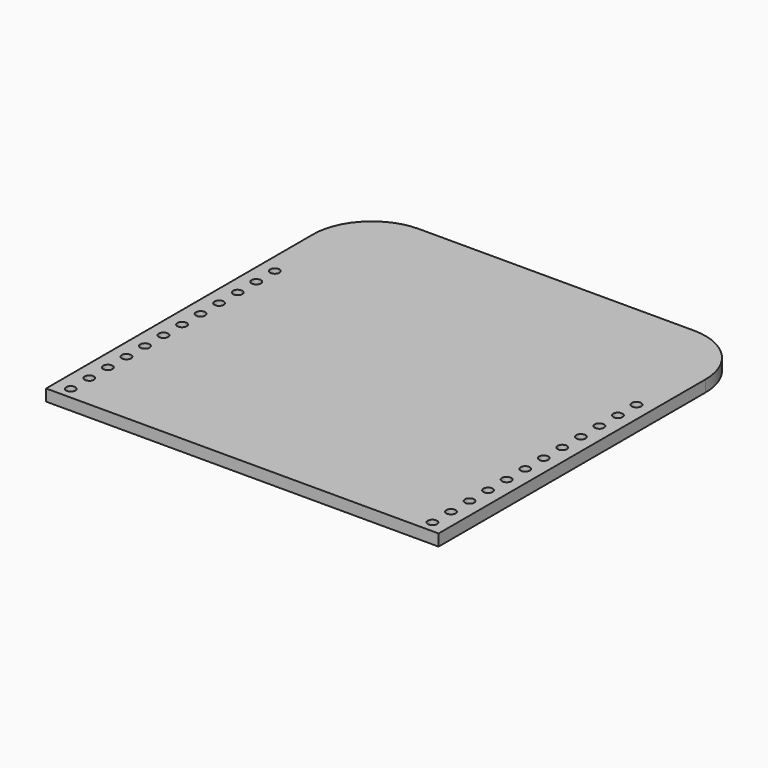
from build123d import *

# Parameters (mm, degrees)
F0_R     = 0.4
F1_DEPTH = 1


with BuildPart() as f1:
    # F0 (on Top) → F1 (new body)
    with BuildSketch(Plane.XY):
        with BuildLine():
            Line((-16.93, -16.93), (16.93, -16.93))
            Line((16.93, -16.93), (16.93, 11.85))
            ThreePointArc((16.93, 11.85), (15.442102, 15.442102), (11.85, 16.93))
            Line((11.85, 16.93), (-11.85, 16.93))
            ThreePointArc((-11.85, 16.93), (-15.442102, 15.442102), (-16.93, 11.85))
            Line((-16.93, 11.85), (-16.93, -16.93))
        make_face()
        with Locations((-15.6, -15.93)):
            Circle(F0_R, mode=Mode.SUBTRACT)
        with Locations((-15.6, -13.93)):
            Circle(F0_R, mode=Mode.SUBTRACT)
        with Locations((-15.6, -11.93)):
            Circle(F0_R, mode=Mode.SUBTRACT)
        with Locations((-15.6, -9.93)):
            Circle(F0_R, mode=Mode.SUBTRACT)
        with Locations((-15.6, -7.93)):
            Circle(F0_R, mode=Mode.SUBTRACT)
        with Locations((-15.6, -5.93)):
            Circle(F0_R, mode=Mode.SUBTRACT)
        with Locations((-15.6, -3.93)):
            Circle(F0_R, mode=Mode.SUBTRACT)
        with Locations((-15.6, -1.93)):
            Circle(F0_R, mode=Mode.SUBTRACT)
        with Locations((15.6, -15.93)):
            Circle(F0_R, mode=Mode.SUBTRACT)
        with Locations((15.6, -13.93)):
            Circle(F0_R, mode=Mode.SUBTRACT)
        with Locations((15.6, -11.93)):
            Circle(F0_R, mode=Mode.SUBTRACT)
        with Locations((15.6, -9.93)):
            Circle(F0_R, mode=Mode.SUBTRACT)
        with Locations((15.6, -7.93)):
            Circle(F0_R, mode=Mode.SUBTRACT)
        with Locations((15.6, -5.93)):
            Circle(F0_R, mode=Mode.SUBTRACT)
        with Locations((15.6, -3.93)):
            Circle(F0_R, mode=Mode.SUBTRACT)
        with Locations((15.6, -1.93)):
            Circle(F0_R, mode=Mode.SUBTRACT)
        with Locations((-15.6, 0.07)):
            Circle(F0_R, mode=Mode.SUBTRACT)
        with Locations((-15.6, 2.07)):
            Circle(F0_R, mode=Mode.SUBTRACT)
        with Locations((-15.6, 4.07)):
            Circle(F0_R, mode=Mode.SUBTRACT)
        with Locations((-15.6, 6.07)):
            Circle(F0_R, mode=Mode.SUBTRACT)
        with Locations((15.6, 0.07)):
            Circle(F0_R, mode=Mode.SUBTRACT)
        with Locations((15.6, 2.07)):
            Circle(F0_R, mode=Mode.SUBTRACT)
        with Locations((15.6, 4.07)):
            Circle(F0_R, mode=Mode.SUBTRACT)
        with Locations((15.6, 6.07)):
            Circle(F0_R, mode=Mode.SUBTRACT)
    extrude(amount=F1_DEPTH)


solid = f1.part
